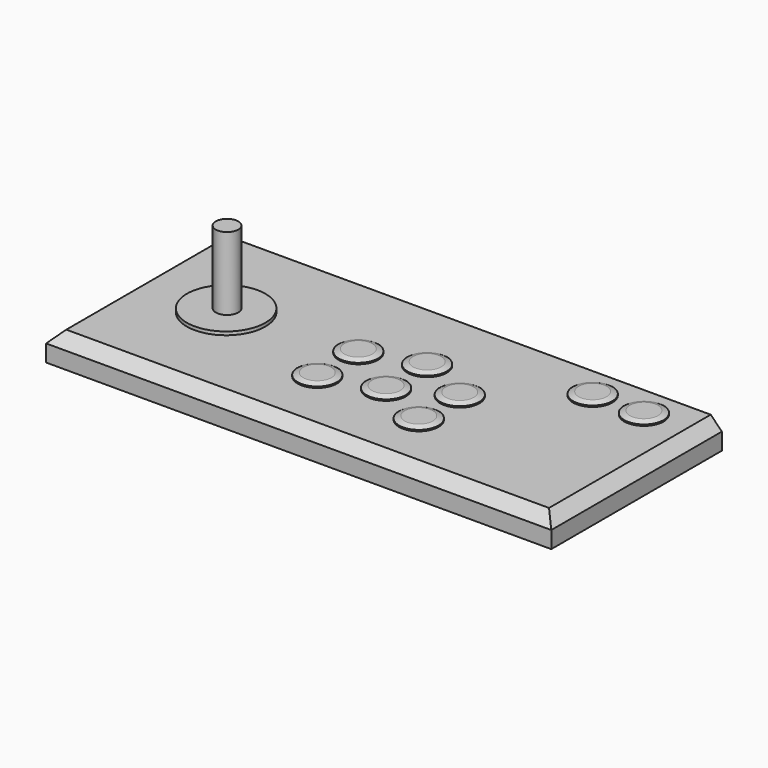
from build123d import *

# Parameters (mm, degrees)
F0_W       = 450
F0_H       = 190
F1_DEPTH   = 25
F2_SIZE    = 10
F3_R       = 35
F3_R_2     = 17.5
F4_DEPTH   = 3
F5_SIZE2   = 1.8198511713
F5_SIZE    = 5
F5_2_SIZE2 = 1.8198511713
F5_2_SIZE  = 5
F5_3_SIZE2 = 1.8198511713
F5_3_SIZE  = 5
F5_4_SIZE2 = 1.8198511713
F5_4_SIZE  = 5
F5_5_SIZE2 = 1.8198511713
F5_5_SIZE  = 5
F5_6_SIZE2 = 1.8198511713
F5_6_SIZE  = 5
F5_7_SIZE2 = 1.8198511713
F5_7_SIZE  = 5
F5_8_SIZE2 = 1.8198511713
F5_8_SIZE  = 5
F6_R       = 10
F7_DEPTH   = 65


with BuildPart() as f1:
    # F0 (on Top) → F1 (new body)
    with BuildSketch(Plane.XY):
        with Locations((-7.6082125306, 13.8156425953)):
            Rectangle(F0_W, F0_H)
    extrude(amount=F1_DEPTH)

    # F2
    f2_edges = [f1.edges().sort_by_distance(p)[0] for p in [
        (-232.608213, 13.815643, 25),
        (217.391787, 13.815643, 25),
        (-7.608213, -81.184357, 25),
    ]]
    chamfer(f2_edges, length=F2_SIZE)

    # F3 (on face) → F4 (join)
    with BuildSketch(Plane.XY.offset(25)):
        with Locations((-152.3020284353, 18.9153849379)):
            Circle(F3_R)
        with Locations((-42.2719009221, 28.5504534841)):
            Circle(F3_R_2)
        with Locations((-42.2719009221, -17.1180190518)):
            Circle(F3_R_2)
        with Locations((7.2203539312, 43.2646488771)):
            Circle(F3_R_2)
        with Locations((7.2203539312, -2.4038236588)):
            Circle(F3_R_2)
        with Locations((53.6563685164, 21.6214338434)):
            Circle(F3_R_2)
        with Locations((170.8431290463, 80.1688283682)):
            Circle(F3_R_2)
        with Locations((125.1746565104, 80.1688283682)):
            Circle(F3_R_2)
        with Locations((53.6563685164, -24.0470386925)):
            Circle(F3_R_2)
    extrude(amount=F4_DEPTH)

    # F5
    f5_edges = [f1.edges().sort_by_distance(p)[0] for p in [
        (-59.771901, -17.118019, 28),
    ]]
    f5_side = f1.faces().sort_by_distance((-42.271901, -17.118019, 28))[0]
    chamfer(f5_edges, length=F5_SIZE, length2=F5_SIZE2, reference=f5_side)

    # F5#2
    f5_2_edges = [f1.edges().sort_by_distance(p)[0] for p in [
        (36.156369, -24.047039, 28),
    ]]
    f5_2_side = f1.faces().sort_by_distance((53.656369, -24.047039, 28))[0]
    chamfer(f5_2_edges, length=F5_2_SIZE, length2=F5_2_SIZE2, reference=f5_2_side)

    # F5#3
    f5_3_edges = [f1.edges().sort_by_distance(p)[0] for p in [
        (-10.279646, -2.403824, 28),
    ]]
    f5_3_side = f1.faces().sort_by_distance((7.220354, -2.403824, 28))[0]
    chamfer(f5_3_edges, length=F5_3_SIZE, length2=F5_3_SIZE2, reference=f5_3_side)

    # F5#4
    f5_4_edges = [f1.edges().sort_by_distance(p)[0] for p in [
        (36.156369, 21.621434, 28),
    ]]
    f5_4_side = f1.faces().sort_by_distance((53.656369, 21.621434, 28))[0]
    chamfer(f5_4_edges, length=F5_4_SIZE, length2=F5_4_SIZE2, reference=f5_4_side)

    # F5#5
    f5_5_edges = [f1.edges().sort_by_distance(p)[0] for p in [
        (-59.771901, 28.550453, 28),
    ]]
    f5_5_side = f1.faces().sort_by_distance((-42.271901, 28.550453, 28))[0]
    chamfer(f5_5_edges, length=F5_5_SIZE, length2=F5_5_SIZE2, reference=f5_5_side)

    # F5#6
    f5_6_edges = [f1.edges().sort_by_distance(p)[0] for p in [
        (-10.279646, 43.264649, 28),
    ]]
    f5_6_side = f1.faces().sort_by_distance((7.220354, 43.264649, 28))[0]
    chamfer(f5_6_edges, length=F5_6_SIZE, length2=F5_6_SIZE2, reference=f5_6_side)

    # F5#7
    f5_7_edges = [f1.edges().sort_by_distance(p)[0] for p in [
        (107.674657, 80.168828, 28),
    ]]
    f5_7_side = f1.faces().sort_by_distance((125.174657, 80.168828, 28))[0]
    chamfer(f5_7_edges, length=F5_7_SIZE, length2=F5_7_SIZE2, reference=f5_7_side)

    # F5#8
    f5_8_edges = [f1.edges().sort_by_distance(p)[0] for p in [
        (153.343129, 80.168828, 28),
    ]]
    f5_8_side = f1.faces().sort_by_distance((170.843129, 80.168828, 28))[0]
    chamfer(f5_8_edges, length=F5_8_SIZE, length2=F5_8_SIZE2, reference=f5_8_side)

    # F6 (on face) → F7 (join)
    with BuildSketch(Plane.XY.offset(28)):
        with Locations((-151.709437467, 19.1692207788)):
            Circle(F6_R)
    extrude(amount=F7_DEPTH)


solid = f1.part
